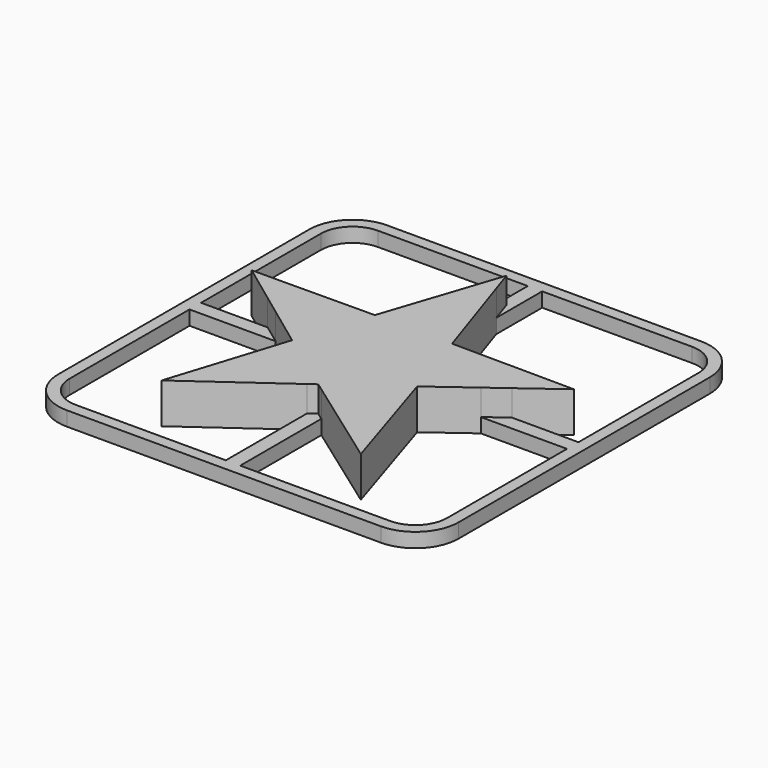
from build123d import *

# Parameters (mm, degrees)
F1_DEPTH = 1
F3_DEPTH = 1.8
F4_DEPTH = 1


with BuildPart() as f1:
    # F0 (on Top) → F1 (new body)
    with BuildSketch(Plane.XY):
        with BuildLine():
            ThreePointArc((-10.9, 13.9), (-13.0213203436, 13.0213203436), (-13.9, 10.9))
            Line((-13.9, 10.9), (-13.9, -10.9))
            ThreePointArc((-13.9, -10.9), (-13.0213203436, -13.0213203436), (-10.9, -13.9))
            Line((-10.9, -13.9), (10.9, -13.9))
            ThreePointArc((10.9, -13.9), (13.0213203436, -13.0213203436), (13.9, -10.9))
            Line((13.9, -10.9), (13.9, 10.9))
            ThreePointArc((13.9, 10.9), (13.0213203436, 13.0213203436), (10.9, 13.9))
            Line((10.9, 13.9), (-10.9, 13.9))
        make_face()
        with BuildLine():
            Line((-13.1, -0.5), (-0.5, -0.5))
            Line((-0.5, -0.5), (-0.5, -13.1))
            Line((-0.5, -13.1), (-10.9, -13.1))
            ThreePointArc((-10.9, -13.1), (-12.4556349186, -12.4556349186), (-13.1, -10.9))
            Line((-13.1, -10.9), (-13.1, -0.5))
        make_face(mode=Mode.SUBTRACT)
        with BuildLine():
            Line((10.9, -13.1), (0.5, -13.1))
            Line((0.5, -13.1), (0.5, -0.5))
            Line((0.5, -0.5), (13.1, -0.5))
            Line((13.1, -0.5), (13.1, -10.9))
            ThreePointArc((13.1, -10.9), (12.4556349186, -12.4556349186), (10.9, -13.1))
        make_face(mode=Mode.SUBTRACT)
        with BuildLine():
            Line((-10.9, 13.1), (-0.5, 13.1))
            Line((-0.5, 13.1), (-0.5, 0.5))
            Line((-0.5, 0.5), (-13.1, 0.5))
            Line((-13.1, 0.5), (-13.1, 10.9))
            ThreePointArc((-13.1, 10.9), (-12.4556349186, 12.4556349186), (-10.9, 13.1))
        make_face(mode=Mode.SUBTRACT)
        with BuildLine():
            Line((13.1, 10.9), (13.1, 0.5))
            Line((13.1, 0.5), (0.5, 0.5))
            Line((0.5, 0.5), (0.5, 13.1))
            Line((0.5, 13.1), (10.9, 13.1))
            ThreePointArc((10.9, 13.1), (12.4556349186, 12.4556349186), (13.1, 10.9))
        make_face(mode=Mode.SUBTRACT)
    extrude(amount=F1_DEPTH)

    # F2 (on face) → F3 (join)
    with BuildSketch(Plane.XY.offset(1)):
        Polygon((-2.6832024986, 2.5549852797), (-11.1835549314, 2.4956311428), (-8.4767530422, 0.5), (-0.5, 0.5), (-0.5, 9.1179095817), align=None)
        Polygon((-0.5, 0.5), (-8.4767530422, 0.5), (-7.1203892177, -0.5), (-0.5, -0.5), (-0.5, -6.061026872), (0, -5.7030628772), (0.5, -6.061026872), (0.5, -0.5), (7.1203892177, -0.5), (8.4767530422, 0.5), (0.5, 0.5), (0.5, 9.1179095817), (0, 10.6209594147), (-0.5, 9.1179095817), align=None)
        Polygon((2.6832024986, 2.5549852797), (0.5, 9.1179095817), (0.5, 0.5), (8.4767530422, 0.5), (11.1835549314, 2.4956311428), align=None)
        Polygon((0.5, -0.5), (0.5, -6.061026872), (6.9118170627, -10.651426171), (4.3415128415, -2.548769162), (7.1203892177, -0.5), align=None)
        Polygon((-0.5, -0.5), (-7.1203892177, -0.5), (-4.3415128415, -2.548769162), (-6.9118170627, -10.651426171), (-0.5, -6.061026872), align=None)
    extrude(amount=F3_DEPTH)

    # F4 (add): faces of the model
    f4_faces = [f1.faces().sort_by_distance(p)[0] for p in [
        (-4.0960108107, 2.4354750497, 1),
        (-3.3222149953, -4.5114296876, 1),
        (3.3222149953, -4.5114296876, 1),
        (4.0960108107, 2.4354750497, 1),
    ]]
    extrude(f4_faces, amount=F4_DEPTH)


solid = f1.part
